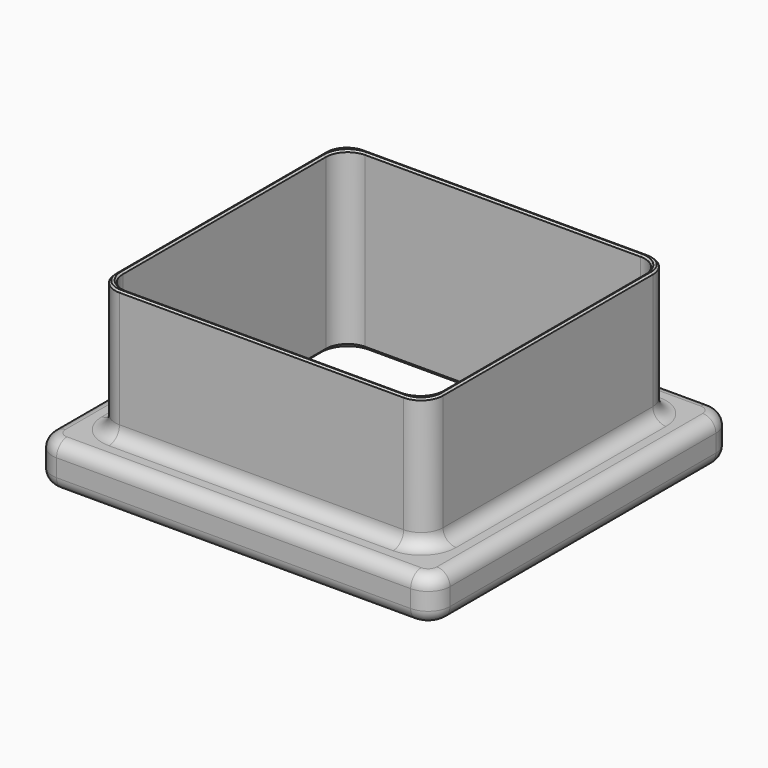
from build123d import *

# Parameters (mm, degrees)
F1_DEPTH = 40
F2_DEPTH = 10
F3_R     = 3
F4_SIZE  = 0.4
F5_SIZE  = 1


with BuildPart() as f1:
    # F0 (on Top) → F1 (new body)
    with BuildSketch(Plane.XY):
        with BuildLine():
            Line((-32.408465, 29.689309), (-97.408465, 29.689309))
            ThreePointArc((-97.408465, 29.689309), (-100.943999, 28.224843), (-102.408465, 24.689309))
            Line((-102.408465, 24.689309), (-102.408465, -35.310691))
            ThreePointArc((-102.408465, -35.310691), (-100.943999, -38.846224), (-97.408465, -40.310691))
            Line((-97.408465, -40.310691), (-32.408465, -40.310691))
            ThreePointArc((-32.408465, -40.310691), (-28.872931, -38.846224), (-27.408465, -35.310691))
            Line((-27.408465, -35.310691), (-27.408465, 24.689309))
            ThreePointArc((-27.408465, 24.689309), (-28.872931, 28.224843), (-32.408465, 29.689309))
        make_face()
        with BuildLine():
            Line((-101.408465, -34.310691), (-101.408465, 23.689309))
            ThreePointArc((-101.408465, 23.689309), (-99.943999, 27.224843), (-96.408465, 28.689309))
            Line((-96.408465, 28.689309), (-33.408465, 28.689309))
            ThreePointArc((-33.408465, 28.689309), (-29.872931, 27.224843), (-28.408465, 23.689309))
            Line((-28.408465, 23.689309), (-28.408465, -34.310691))
            ThreePointArc((-28.408465, -34.310691), (-29.872931, -37.846224), (-33.408465, -39.310691))
            Line((-33.408465, -39.310691), (-96.408465, -39.310691))
            ThreePointArc((-96.408465, -39.310691), (-99.943999, -37.846224), (-101.408465, -34.310691))
        make_face(mode=Mode.SUBTRACT)
    extrude(amount=F1_DEPTH)

    # F0 (on Top) → F2 (join)
    with BuildSketch(Plane.XY):
        with BuildLine():
            Line((-24.408465, 37.689309), (-105.408465, 37.689309))
            ThreePointArc((-105.408465, 37.689309), (-108.943999, 36.224843), (-110.408465, 32.689309))
            Line((-110.408465, 32.689309), (-110.408465, -43.310691))
            ThreePointArc((-110.408465, -43.310691), (-108.943999, -46.846224), (-105.408465, -48.310691))
            Line((-105.408465, -48.310691), (-24.408465, -48.310691))
            ThreePointArc((-24.408465, -48.310691), (-20.872931, -46.846224), (-19.408465, -43.310691))
            Line((-19.408465, -43.310691), (-19.408465, 32.689309))
            ThreePointArc((-19.408465, 32.689309), (-20.872931, 36.224843), (-24.408465, 37.689309))
        make_face()
        with BuildLine():
            Line((-105.408465, -38.310691), (-105.408465, 27.689309))
            ThreePointArc((-105.408465, 27.689309), (-103.943999, 31.224843), (-100.408465, 32.689309))
            Line((-100.408465, 32.689309), (-29.408465, 32.689309))
            ThreePointArc((-29.408465, 32.689309), (-25.872931, 31.224843), (-24.408465, 27.689309))
            Line((-24.408465, 27.689309), (-24.408465, -38.310691))
            ThreePointArc((-24.408465, -38.310691), (-25.872931, -41.846224), (-29.408465, -43.310691))
            Line((-29.408465, -43.310691), (-100.408465, -43.310691))
            ThreePointArc((-100.408465, -43.310691), (-103.943999, -41.846224), (-105.408465, -38.310691))
        make_face(mode=Mode.SUBTRACT)
        with BuildLine():
            ThreePointArc((-100.408465, 32.689309), (-103.943999, 31.224843), (-105.408465, 27.689309))
            Line((-105.408465, 27.689309), (-105.408465, -38.310691))
            ThreePointArc((-105.408465, -38.310691), (-103.943999, -41.846224), (-100.408465, -43.310691))
            Line((-100.408465, -43.310691), (-29.408465, -43.310691))
            ThreePointArc((-29.408465, -43.310691), (-25.872931, -41.846224), (-24.408465, -38.310691))
            Line((-24.408465, -38.310691), (-24.408465, 27.689309))
            ThreePointArc((-24.408465, 27.689309), (-25.872931, 31.224843), (-29.408465, 32.689309))
            Line((-29.408465, 32.689309), (-100.408465, 32.689309))
        make_face()
        with BuildLine():
            ThreePointArc((-102.408465, 24.689309), (-100.943999, 28.224843), (-97.408465, 29.689309))
            Line((-97.408465, 29.689309), (-32.408465, 29.689309))
            ThreePointArc((-32.408465, 29.689309), (-28.872931, 28.224843), (-27.408465, 24.689309))
            Line((-27.408465, 24.689309), (-27.408465, -35.310691))
            ThreePointArc((-27.408465, -35.310691), (-28.872931, -38.846224), (-32.408465, -40.310691))
            Line((-32.408465, -40.310691), (-97.408465, -40.310691))
            ThreePointArc((-97.408465, -40.310691), (-100.943999, -38.846224), (-102.408465, -35.310691))
            Line((-102.408465, -35.310691), (-102.408465, 24.689309))
        make_face(mode=Mode.SUBTRACT)
    extrude(amount=F2_DEPTH)

    # F3
    f3_edges = [f1.edges().sort_by_distance(p)[0] for p in [
        (-64.908465, -40.310691, 10),
        (-64.908465, -48.310691, 10),
        (-64.908465, -48.310691, 0),
    ]]
    fillet(f3_edges, radius=F3_R)

    # F4
    f4_edges = [f1.edges().sort_by_distance(p)[0] for p in [
        (-64.908465, -40.310691, 40),
        (-64.908465, -39.310691, 40),
    ]]
    chamfer(f4_edges, length=F4_SIZE)

    # F5
    f5_edges = [f1.edges().sort_by_distance(p)[0] for p in [
        (-101.408465, -5.310691, 0),
    ]]
    chamfer(f5_edges, length=F5_SIZE)


solid = f1.part
